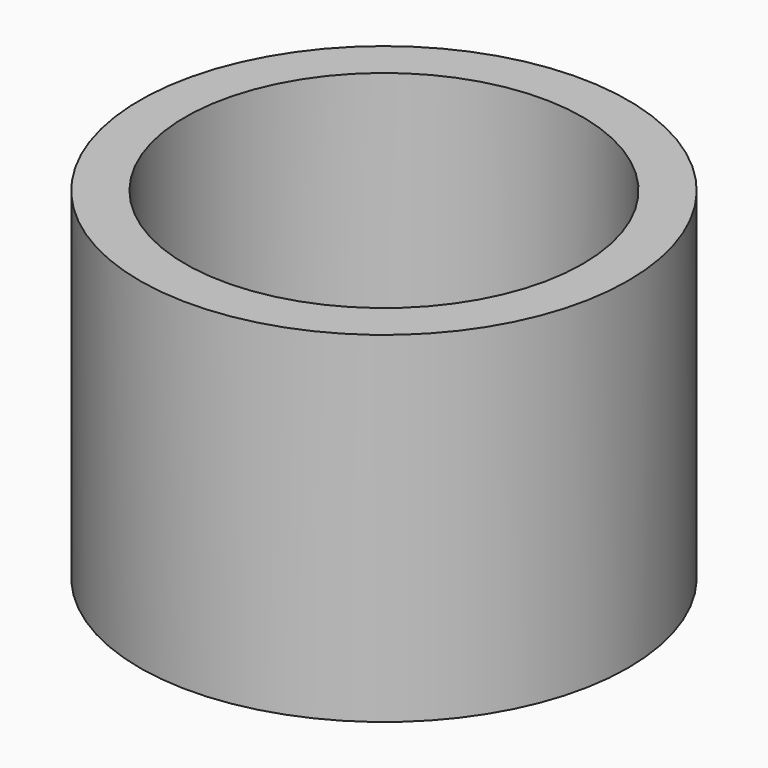
from build123d import *

# Parameters (mm, degrees)
CYLINDER025_R     = 1.6
CYLINDER025_DEPTH = 5
CYLINDER022_R     = 3.5
CYLINDER022_DEPTH = 4
CYLINDER024_R     = 4.3
CYLINDER024_DEPTH = 6


with BuildPart() as cylinder025:
    # Cylinder025 → Cylinder025 (new body)
    with BuildSketch(Plane(origin=(98, 4.5, 22), x_dir=(1, 0, 0), z_dir=(0, 0, 1))):
        Circle(CYLINDER025_R)
    extrude(amount=CYLINDER025_DEPTH)


with BuildPart() as cylinder022:
    # Cylinder022 → Cylinder022 (new body)
    with BuildSketch(Plane(origin=(98, 4.5, 24), x_dir=(1, 0, 0), z_dir=(0, 0, 1))):
        Circle(CYLINDER022_R)
    extrude(amount=CYLINDER022_DEPTH)


with BuildPart() as cut004003004003003004004009:
    # Cylinder024 → Cylinder024 (new body)
    with BuildSketch(Plane(origin=(98, 4.5, 22), x_dir=(1, 0, 0), z_dir=(0, 0, 1))):
        Circle(CYLINDER024_R)
    extrude(amount=CYLINDER024_DEPTH)

    # Cut004003004003003004004006: cut Cylinder022
    add(cylinder022.part, mode=Mode.SUBTRACT)

    # Cut004003004003003004004009: cut Cylinder025
    add(cylinder025.part, mode=Mode.SUBTRACT)


solid = cut004003004003003004004009.part
